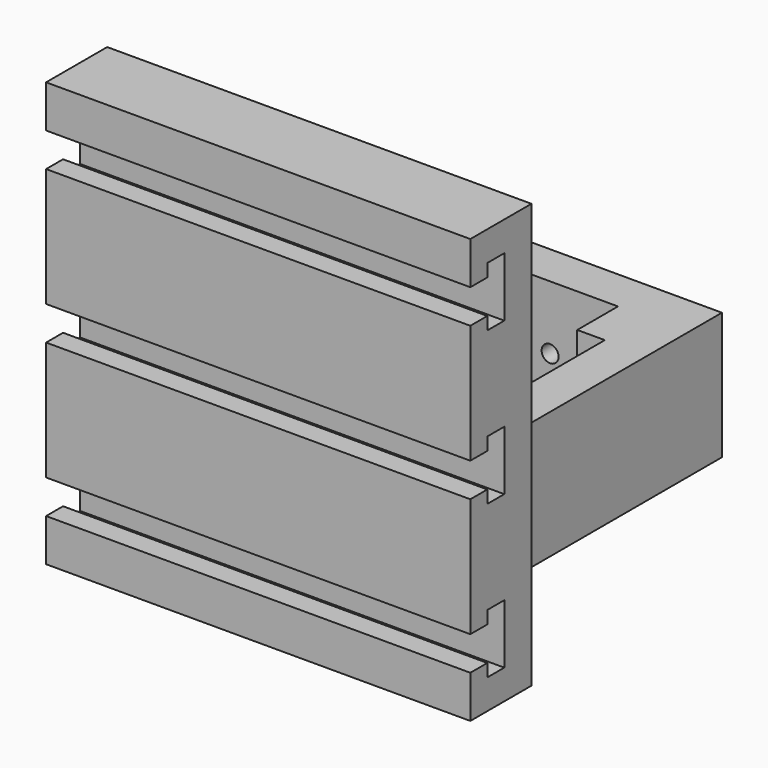
from build123d import *

# Parameters (mm, degrees)
F0_W      = 100
F0_H      = 100
F1_DEPTH  = 96
F2_W      = 17.5
F2_H      = 78
F3_DEPTH  = 100.001
F4_W      = 65
F4_H      = 78
F5_DEPTH  = 45
F6_W      = 65
F6_H      = 78
F7_DEPTH  = 10
F8_W      = 65
F8_H      = 73
F9_DEPTH  = 15
F11_DEPTH = 100.001
F12_R     = 1.5
F12_R_2   = 2
F13_DEPTH = 10
F14_R     = 2
F15_DEPTH = 8


with BuildPart() as f1:
    # F0 (on Front) → F1 (new body)
    with BuildSketch(Plane.XZ):
        with Locations((0, 50)):
            Rectangle(F0_W, F0_H)
    extrude(amount=-F1_DEPTH)

    # F2 (on face) → F3 (cut, through all)
    with BuildSketch(Plane.XY.offset(100)):
        with Locations((-41.25, 57)):
            Rectangle(F2_W, F2_H)
        with Locations((41.25, 57)):
            Rectangle(F2_W, F2_H)
        Polygon((-22.5, 74), (-22.5, 18), (22.5, 18), (22.5, 74), (16, 74), (16, 86), (-16, 86), (-16, 74), align=None)
    extrude(amount=-F3_DEPTH, mode=Mode.SUBTRACT)

    # F4 (on face) → F5 (cut)
    with BuildSketch(Plane.XY.offset(100)):
        with Locations((0, 57)):
            Rectangle(F4_W, F4_H)
    extrude(amount=-F5_DEPTH, mode=Mode.SUBTRACT)

    # F6 (on face) → F7 (cut)
    with BuildSketch(Plane(origin=(0, 0, 0), x_dir=(1, 0, 0), z_dir=(0, 0, -1))):
        with Locations((0, -57)):
            Rectangle(F6_W, F6_H)
    extrude(amount=-F7_DEPTH, mode=Mode.SUBTRACT)

    # F8 (on face) → F9 (cut)
    with BuildSketch(Plane.XY.offset(55)):
        with Locations((0, 59.5)):
            Rectangle(F8_W, F8_H)
    extrude(amount=-F9_DEPTH, mode=Mode.SUBTRACT)

    # F10 (on face) → F11 (cut, through all)
    with BuildSketch(Plane.YZ.offset(50)):
        Polygon((0, 18), (0, 10), (5, 10), (5, 7), (10, 7), (10, 21), (5, 21), (5, 18), align=None)
        Polygon((5, 46), (5, 43), (10, 43), (10, 57), (5, 57), (5, 54), (0, 54), (0, 46), align=None)
        Polygon((5, 82), (5, 79), (10, 79), (10, 93), (5, 93), (5, 90), (0, 90), (0, 82), align=None)
    extrude(amount=-F11_DEPTH, mode=Mode.SUBTRACT)

    # F12 (on face) → F13 (cut)
    with BuildSketch(Plane(origin=(0, 96, 0), x_dir=(-1, 0, 0), z_dir=(0, 1, 0))):
        with Locations((-12.5, 35)):
            Circle(F12_R)
        with Locations((-12.5, 15)):
            Circle(F12_R)
        with Locations((12.5, 35)):
            Circle(F12_R)
        with Locations((12.5, 15)):
            Circle(F12_R)
        with Locations((0, 25)):
            Circle(F12_R_2)
    extrude(amount=-F13_DEPTH, mode=Mode.SUBTRACT)

    # F14 (on face) → F15 (cut)
    with BuildSketch(Plane(origin=(0, 18, 0), x_dir=(-1, 0, 0), z_dir=(0, 1, 0))):
        with Locations((18, 50.5)):
            Circle(F14_R)
        with Locations((18, 14.5)):
            Circle(F14_R)
        with Locations((-18, 50.5)):
            Circle(F14_R)
        with Locations((-18, 14.5)):
            Circle(F14_R)
    extrude(amount=-F15_DEPTH, mode=Mode.SUBTRACT)


solid = f1.part
